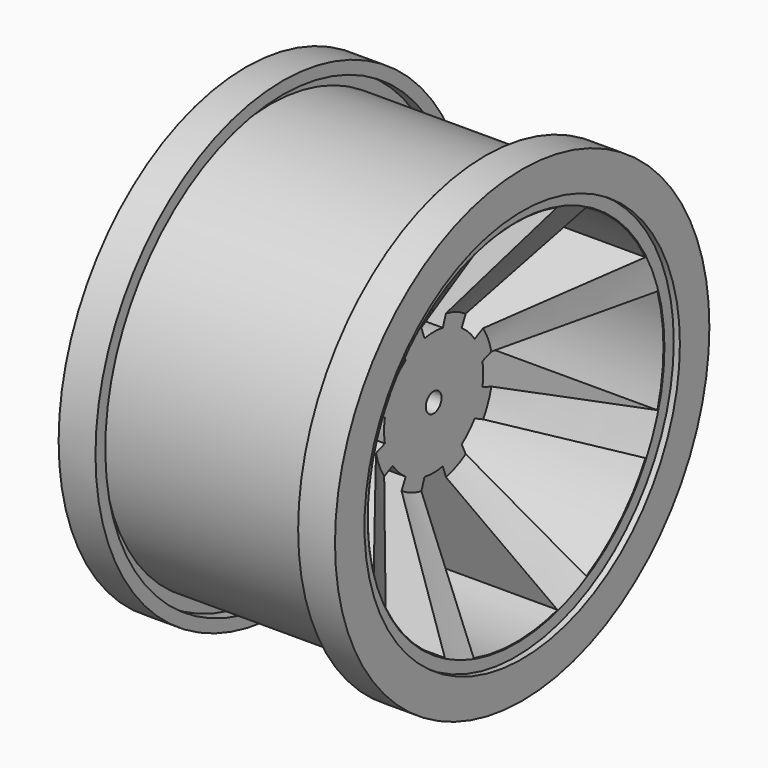
from build123d import *

# Parameters (mm, degrees)
SKETCH027_R          = 38.1
PAD009_DEPTH         = 22.5
POCKET015_DEPTH      = 278.563668
POCKET015_DEPTH_BACK = -233.563668
POLARPATTERN_COUNT   = 8
SKETCH029_R          = 1.6
POCKET016_DEPTH      = 45.001
POCKET016_DEPTH_BACK = -0.001
SKETCH030_R          = 32.1
POCKET017_DEPTH      = 1
SKETCH031_R          = 12
POCKET018_DEPTH      = 19
SKETCH034_R          = 32.1
POCKET019_DEPTH      = 1
SKETCH035_R          = 8
POCKET020_DEPTH      = 13
SKETCH069_R          = 1.6
POCKET040_DEPTH      = 8


with BuildPart() as part:
    # Sketch027 → Pad009 (new body, symmetric)
    with BuildSketch(Plane.YZ):
        Circle(SKETCH027_R)
    extrude(amount=PAD009_DEPTH, both=True)

    # Sketch028 (on Face3 of Pad009) → Pocket015 (cut, two sides)
    with BuildSketch(Plane.YZ.offset(22.5)) as pocket015_sk:
        with BuildLine():
            ThreePointArc((1.865103, 9.926298), (0, 10.1), (-1.865103, 9.926298))
            Line((-1.865103, 9.926298), (-8.518771, 28.86937))
            ThreePointArc((8.518771, 28.86937), (0, 30.1), (-8.518771, 28.86937))
            Line((8.518771, 28.86937), (1.865103, 9.926298))
        make_face()
    pocket015 = extrude(amount=-POCKET015_DEPTH, mode=Mode.SUBTRACT)
    extrude(pocket015_sk.sketch, amount=-POCKET015_DEPTH_BACK, mode=Mode.SUBTRACT)

    # PolarPattern: Pocket015 ×8 about axis
    polarpattern_axis = Axis((22.5, 0, 0), (1, 0, 0))
    for i in range(1, POLARPATTERN_COUNT):
        add(pocket015.rotate(polarpattern_axis, i * 360 / POLARPATTERN_COUNT), mode=Mode.SUBTRACT)

    # Sketch029 (on Face3 of PolarPattern) → Pocket016 (cut, two sides)
    with BuildSketch(Plane.YZ.offset(22.5)) as pocket016_sk:
        Circle(SKETCH029_R)
    extrude(amount=-POCKET016_DEPTH, mode=Mode.SUBTRACT)
    extrude(pocket016_sk.sketch, amount=-POCKET016_DEPTH_BACK, mode=Mode.SUBTRACT)

    # Sketch030 (on Face2 of Pocket016) → Pocket017 (cut)
    with BuildSketch(Plane(origin=(-22.5, 0, 0), x_dir=(0, 1, 0), z_dir=(-1, 0, 0))):
        Circle(SKETCH030_R)
    extrude(amount=-POCKET017_DEPTH, mode=Mode.SUBTRACT)

    # Sketch031 (on Face38 of Pocket017) → Pocket018 (cut)
    with BuildSketch(Plane(origin=(-21.5, 0, 0), x_dir=(0, 1, 0), z_dir=(-1, 0, 0))):
        Circle(SKETCH031_R)
    extrude(amount=-POCKET018_DEPTH, mode=Mode.SUBTRACT)

    # Sketch033 → Groove (revolve, cut)
    with BuildSketch(Plane.XZ):
        Polygon((-16.5, 38.1), (16.5, 38.1), (16.5, 36.1), (18.5, 36.1), (18.5, 34.1), (-18.5, 34.1), (-18.5, 36.1), (-16.5, 36.1), align=None)
    revolve(axis=Axis((0, 0, 0), (1, 0, 0)), mode=Mode.SUBTRACT)

    # Sketch034 (on Face41 of Groove) → Pocket019 (cut)
    with BuildSketch(Plane.YZ.offset(22.5)):
        Circle(SKETCH034_R)
    extrude(amount=-POCKET019_DEPTH, mode=Mode.SUBTRACT)

    # Sketch035 (on Face41 of Pocket019) → Pocket020 (cut)
    with BuildSketch(Plane.YZ.offset(21.5)):
        Circle(SKETCH035_R)
    extrude(amount=-POCKET020_DEPTH, mode=Mode.SUBTRACT)

    # Cone → Cone (revolve, cut)
    with BuildSketch(Plane(origin=(8.086737, 0, 0), x_dir=(0, 1, 0), z_dir=(0, 0, -1))):
        Polygon((0, 0), (12, 0), (31, 14), (0, 14), align=None)
    revolve(axis=Axis((8.086737, 0, 0), (1, 0, 0)), mode=Mode.SUBTRACT)

    # Cone001 → Cone001 (revolve, cut)
    with BuildSketch(Plane(origin=(-2.5, 0, 0), x_dir=(0, 1, 0), z_dir=(0, 0, 1))):
        Polygon((0, 0), (12, 0), (30, 19), (0, 19), align=None)
    revolve(axis=Axis((-2.5, 0, 0), (-1, 0, 0)), mode=Mode.SUBTRACT)

    # Sketch069 (on Face42 of Cone001) → Pocket040 (cut)
    with BuildSketch(Plane(origin=(-2.5, 0, 0), x_dir=(0, 1, 0), z_dir=(-1, 0, 0))):
        with Locations((-7.071068, 0)):
            Circle(SKETCH069_R)
        with Locations((0, 7.071068)):
            Circle(SKETCH069_R)
        with Locations((7.071068, 0)):
            Circle(SKETCH069_R)
        with Locations((0, -7.071068)):
            Circle(SKETCH069_R)
    extrude(amount=-POCKET040_DEPTH, mode=Mode.SUBTRACT)


with BuildPart() as part_1:
    # Body006 placement: moved
    add(part.part.moved(Location((7.1, 0, 0))))


solid = part_1.part
